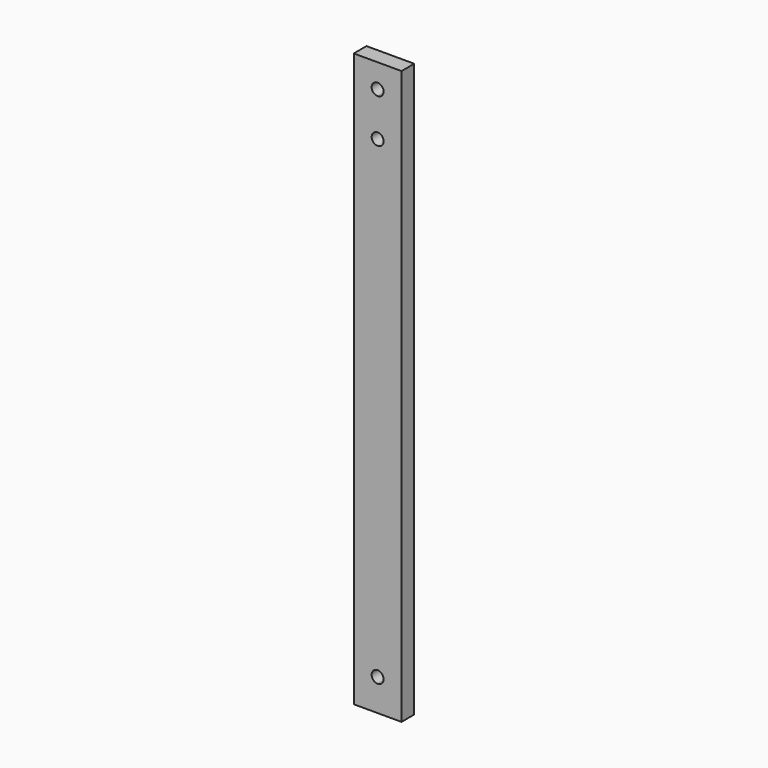
from build123d import *

# Parameters (mm, degrees)
F1_DEPTH = 12.7


with BuildPart() as f1:
    # F0 (on Front) → F1 (new body)
    with BuildSketch(Plane.XZ):
        with BuildLine():
            ThreePointArc((0.094554, -2.059439), (-8.035542, 1.308157), (-4.667946, -6.821939))
            ThreePointArc((-4.667946, -6.821939), (-1.30035, -5.427035), (0.094554, -2.059439))
        make_face()
        with BuildLine():
            ThreePointArc((0.094554, 375.765561), (-1.30035, 379.133157), (-4.667946, 380.528061))
            ThreePointArc((-4.667946, 380.528061), (-8.035542, 372.397965), (0.094554, 375.765561))
        make_face()
        Polygon((-4.667946, 429.740561), (-23.717946, 429.740561), (-23.717946, -27.459439), (-4.667946, -27.459439), (14.382054, -27.459439), (14.382054, 429.740561), align=None)
        with BuildLine():
            ThreePointArc((0.094554, -2.059439), (-1.30035, -5.427035), (-4.667946, -6.821939))
            ThreePointArc((-4.667946, -6.821939), (-8.035542, 1.308157), (0.094554, -2.059439))
        make_face(mode=Mode.SUBTRACT)
        with BuildLine():
            ThreePointArc((0.094554, 375.765561), (-8.035542, 372.397965), (-4.667946, 380.528061))
            ThreePointArc((-4.667946, 380.528061), (-1.30035, 379.133157), (0.094554, 375.765561))
        make_face(mode=Mode.SUBTRACT)
        with BuildLine():
            ThreePointArc((-4.667946, 405.928061), (-9.430446, 410.690561), (-4.667946, 415.453061))
            ThreePointArc((-4.667946, 415.453061), (-1.30035, 414.058157), (0.094554, 410.690561))
            ThreePointArc((0.094554, 410.690561), (-1.30035, 407.322965), (-4.667946, 405.928061))
        make_face(mode=Mode.SUBTRACT)
    extrude(amount=F1_DEPTH)


solid = f1.part
